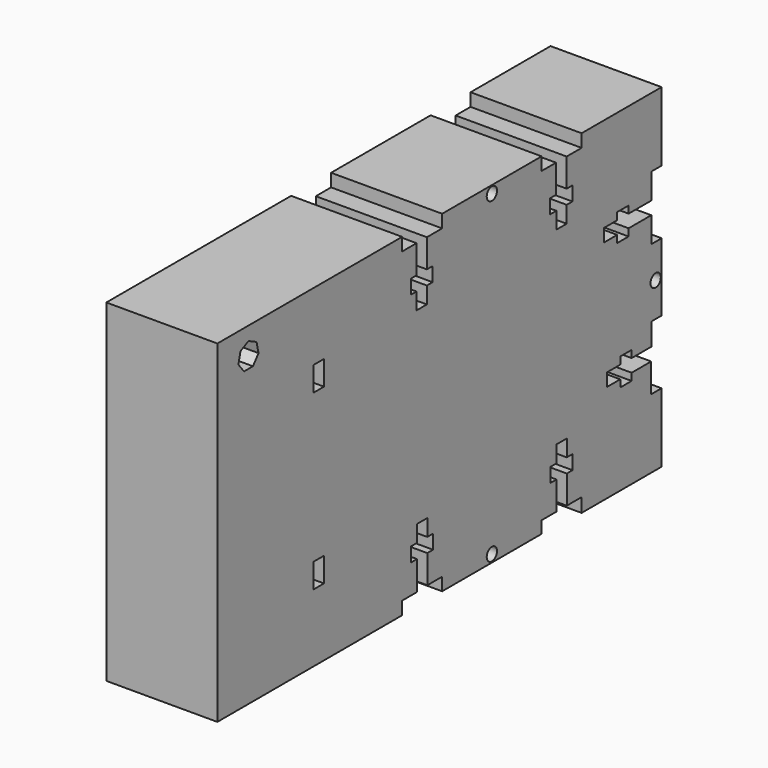
from build123d import *

# Parameters (mm, degrees)
F0_W     = 3.048
F0_H     = 5.588
F0_R     = 1.4732
F1_DEPTH = 25.4


with BuildPart() as f1:
    # F0 (on Right) → F1 (new body)
    with BuildSketch(Plane.YZ):
        Polygon((-44.894837, -69.046037), (-72.387907, -69.046037), (-72.387907, -145.246037), (-19.555907, -145.246037), (-19.555907, -142.299637), (-15.314107, -142.299637), (-15.314107, -135.647137), (-16.965107, -135.647137), (-16.965107, -132.395937), (-15.314107, -132.395937), (-15.314107, -128.585937), (-12.367707, -128.585937), (-12.367707, -132.395937), (-10.716707, -132.395937), (-10.716707, -135.647137), (-12.367707, -135.647137), (-12.367707, -142.124137), (-8.125907, -142.124137), (-8.125907, -145.070537), (20.322093, -145.070537), (20.322093, -142.316303), (24.563893, -142.316303), (24.563893, -135.839303), (22.912893, -135.839303), (22.912893, -132.588103), (24.563893, -132.588103), (24.563893, -128.778103), (27.510293, -128.778103), (27.510293, -132.588103), (29.161293, -132.588103), (29.161293, -135.839303), (27.510293, -135.839303), (27.510293, -142.316303), (31.752093, -142.316303), (31.752093, -145.495363), (54.612093, -145.495363), (54.612093, -129.683863), (51.644098, -129.683863), (51.647506, -123.079863), (46.049349, -123.079863), (46.049349, -124.730863), (42.798149, -124.730863), (42.798149, -123.079863), (38.988149, -123.079863), (38.988149, -120.133463), (42.798149, -120.133463), (42.798149, -118.482463), (46.049349, -118.482463), (46.049349, -120.133463), (51.694974, -120.133463), (51.694974, -115.053463), (54.641374, -115.053463), (54.641374, -99.483097), (51.665693, -99.483097), (51.665693, -93.642298), (45.188693, -93.642298), (45.188693, -95.296937), (41.937493, -95.296937), (41.937493, -93.645937), (38.127493, -93.645937), (38.127493, -90.699537), (41.937493, -90.699537), (41.937493, -89.048537), (45.188693, -89.048537), (45.188693, -90.699537), (51.665693, -90.699537), (51.665693, -84.857537), (54.612093, -84.857537), (54.612093, -71.992437), (54.612093, -69.046037), (31.752093, -69.046037), (31.752093, -71.992437), (27.478132, -71.992437), (27.478132, -78.469437), (29.129132, -78.469437), (29.129132, -81.720637), (27.478132, -81.720637), (27.478132, -85.530637), (24.531732, -85.530637), (24.531732, -81.720637), (22.782468, -81.720637), (22.782468, -78.469437), (24.433468, -78.469437), (24.433468, -71.992437), (20.322093, -71.992437), (20.322093, -69.046037), (-8.125907, -69.046037), (-8.125907, -71.992437), (-12.494707, -71.992437), (-12.494707, -78.469437), (-10.843707, -78.469437), (-10.843707, -81.720637), (-12.494707, -81.720637), (-12.494707, -85.530637), (-15.441107, -85.530637), (-15.441107, -81.720637), (-17.092107, -81.720637), (-17.092107, -78.469437), (-15.441107, -78.469437), (-15.441107, -71.992437), (-19.555907, -71.992437), (-19.555907, -69.046037), align=None)
        with Locations((-43.431907, -126.958037)):
            Rectangle(F0_W, F0_H, mode=Mode.SUBTRACT)
        with Locations((6.098093, -143.343337)):
            Circle(F0_R, mode=Mode.SUBTRACT)
        with Locations((-43.431907, -87.334037)):
            Rectangle(F0_W, F0_H, mode=Mode.SUBTRACT)
        with Locations((52.914174, -107.268363)):
            Circle(F0_R, mode=Mode.SUBTRACT)
        Polygon((-60.623973, -75.769594), (-62.216802, -77.766938), (-64.771501, -77.766938), (-66.36433, -75.769594), (-65.795856, -73.278946), (-63.494152, -72.170503), (-61.192447, -73.278946), align=None, mode=Mode.SUBTRACT)
        with Locations((6.098093, -70.773237)):
            Circle(F0_R, mode=Mode.SUBTRACT)
    extrude(amount=F1_DEPTH)


with BuildPart() as f1_1:
    # F2: moved
    add(f1.part.moved(Location((0, -1.524, -27.432))))


solid = f1_1.part
